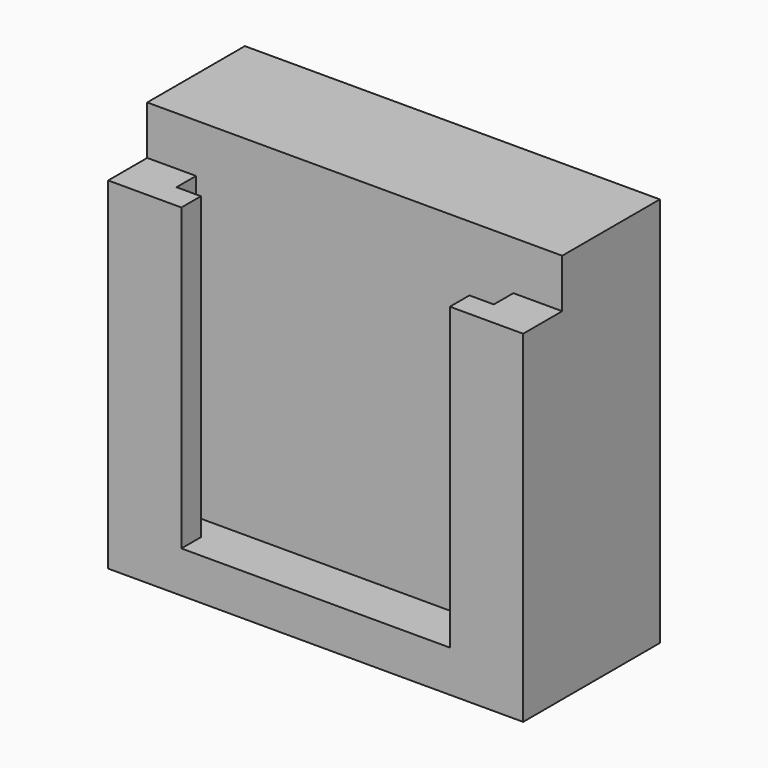
from build123d import *

# Parameters (mm, degrees)
F0_W     = 85
F0_H     = 80
F2_DEPTH = 25
F3_DEPTH = 5
F4_W     = 5
F4_H     = 61.4819614498
F5_DEPTH = 5


with BuildPart() as f2:
    # F0 (on Front) → F2 (new body)
    with BuildSketch(Plane.XZ):
        with Locations((1.5661627076, 1.7497490255)):
            Rectangle(F0_W, F0_H)
    extrude(amount=-F2_DEPTH)

    # F1 (on Front) → F3 (join)
    with BuildSketch(Plane.XZ):
        Polygon((-30.9338372924, -29.7322124243), (-30.9338372924, 31.7497490255), (-40.9338372924, 31.7497490255), (-40.9338372924, -38.2502509745), (44.0661627076, -38.2502509745), (44.0661627076, 31.7497490255), (34.0661627076, 31.7497490255), (34.0661627076, -29.7322124243), align=None)
    extrude(amount=F3_DEPTH)

    # F4 (on face) → F5 (join)
    with BuildSketch(Plane.XZ.offset(5)):
        with Locations((-28.4338372924, 1.0087683006)):
            Rectangle(F4_W, F4_H)
        Polygon((-30.9338372924, 31.7497490255), (-40.9338372924, 31.7497490255), (-40.9338372924, -38.2502509745), (44.0661627076, -38.2502509745), (44.0661627076, 31.7497490255), (34.0661627076, 31.7497490255), (34.0661627076, -29.7322124243), (29.0661627076, -29.7322124243), (-25.9338372924, -29.7322124243), (-30.9338372924, -29.7322124243), align=None)
        with Locations((31.5661627076, 1.0087683006)):
            Rectangle(F4_W, F4_H)
    extrude(amount=F5_DEPTH)


solid = f2.part
